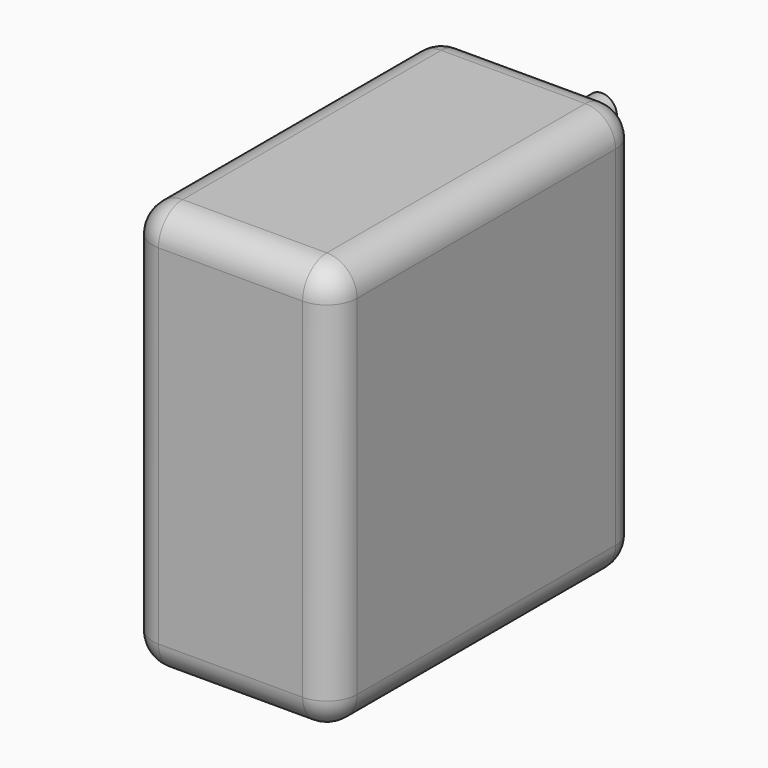
from build123d import *

# Parameters (mm, degrees)
F0_W     = 20.32
F0_H     = 40.64
F0_R     = 3.75
F0_R_2   = 1.499247
F1_DEPTH = 38.1
F2_DEPTH = 1.5
F3_R     = 3
F4_DEPTH = 8


with BuildPart() as f1:
    # F0 (on Front) → F1 (new body)
    with BuildSketch(Plane.XZ):
        Rectangle(F0_W, F0_H)
        with Locations((0, 12.952523)):
            Circle(F0_R, mode=Mode.SUBTRACT)
        with Locations((0, 12.952523)):
            Circle(F0_R)
        with Locations((0, 12.952523)):
            Circle(F0_R_2, mode=Mode.SUBTRACT)
        with Locations((0, 12.952523)):
            Circle(F0_R_2)
    extrude(amount=F1_DEPTH)

    # F0 (on Front) → F2 (join)
    with BuildSketch(Plane.XZ):
        with Locations((0, 12.952523)):
            Circle(F0_R)
        with Locations((0, 12.952523)):
            Circle(F0_R_2, mode=Mode.SUBTRACT)
    extrude(amount=-F2_DEPTH)

    # F3
    f3_edges = [f1.edges().sort_by_distance(p)[0] for p in [
        (10.16, -19.05, -20.32),
        (10.16, -19.05, 20.32),
        (10.16, 0, 0),
        (10.16, -38.1, 0),
        (-10.16, -19.05, 20.32),
        (0, 0, 20.32),
        (0, -38.1, 20.32),
        (-10.16, -19.05, -20.32),
        (-10.16, 0, 0),
        (-10.16, -38.1, 0),
        (0, -38.1, -20.32),
        (0, 0, -20.32),
    ]]
    fillet(f3_edges, radius=F3_R)

    # F0 (on Front) → F4 (join)
    with BuildSketch(Plane.XZ):
        with Locations((0, 12.952523)):
            Circle(F0_R_2)
    extrude(amount=-F4_DEPTH)


solid = f1.part
